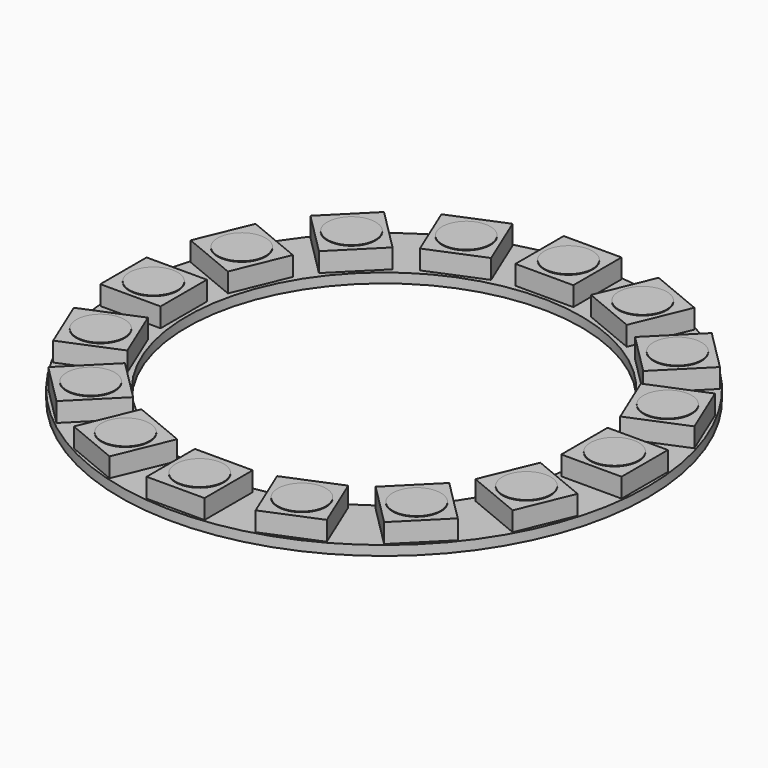
from build123d import *

# Parameters (mm, degrees)
F0_R     = 21.9
F0_R_2   = 16.35
F1_DEPTH = 0.8
F2_R     = 2
F2_W     = 5
F2_H     = 4.8
F2_W_2   = 4.8
F2_H_2   = 5
F3_DEPTH = 1.6
F4_DEPTH = 1.65
F6_DEPTH = 0.1


with BuildPart() as f1:
    # F0 (on Top) → F1 (new body)
    with BuildSketch(Plane.XY):
        Circle(F0_R)
        Circle(F0_R_2, mode=Mode.SUBTRACT)
    extrude(amount=F1_DEPTH)

    # F2 (on face) → F3 (join)
    with BuildSketch(Plane.XY.offset(0.8)):
        with BuildLine():
            Line((2.4, 21.625), (0, 21.625))
            Line((0, 21.625), (0, 21.125))
            ThreePointArc((0, 21.125), (1.4142135624, 20.5392135624), (2, 19.125))
            ThreePointArc((2, 19.125), (1.4142135624, 17.7107864376), (0, 17.125))
            Line((0, 17.125), (0, 16.625))
            Line((0, 16.625), (2.4, 16.625))
            Line((2.4, 16.625), (2.4, 21.625))
        make_face()
        with BuildLine():
            Line((0, 21.125), (0, 21.625))
            Line((0, 21.625), (-2.4, 21.625))
            Line((-2.4, 21.625), (-2.4, 16.625))
            Line((-2.4, 16.625), (0, 16.625))
            Line((0, 16.625), (0, 17.125))
            ThreePointArc((0, 17.125), (-2, 19.125), (0, 21.125))
        make_face()
        Polygon((-10.4928401029, 19.0604546529), (-8.5794229411, 14.4410569903), (-4.144801185, 16.2779374657), (-6.0582183469, 20.8973351282), align=None)
        with Locations((-7.318820644, 17.6691960593)):
            Circle(F2_R, mode=Mode.SUBTRACT)
        Polygon((-16.988240418, 13.5941278683), (-13.4527065121, 10.0585939624), (-10.0585939624, 13.4527065121), (-13.5941278683, 16.988240418), align=None)
        with Locations((-13.5234171902, 13.5234171902)):
            Circle(F2_R, mode=Mode.SUBTRACT)
        Polygon((-20.8973351282, 6.0582183469), (-16.2779374657, 4.144801185), (-14.4410569903, 8.5794229411), (-19.0604546529, 10.4928401029), align=None)
        with Locations((-17.6691960593, 7.318820644)):
            Circle(F2_R, mode=Mode.SUBTRACT)
        with Locations((-19.125, 0)):
            Rectangle(F2_W, F2_H)
        with Locations((-19.125, 0)):
            Circle(F2_R, mode=Mode.SUBTRACT)
        Polygon((-19.0604546529, -10.4928401029), (-14.4410569903, -8.5794229411), (-16.2779374657, -4.144801185), (-20.8973351282, -6.0582183469), align=None)
        with Locations((-17.6691960593, -7.318820644)):
            Circle(F2_R, mode=Mode.SUBTRACT)
        Polygon((-13.5941278683, -16.988240418), (-10.0585939624, -13.4527065121), (-13.4527065121, -10.0585939624), (-16.988240418, -13.5941278683), align=None)
        with Locations((-13.5234171902, -13.5234171902)):
            Circle(F2_R, mode=Mode.SUBTRACT)
        Polygon((-6.0582183469, -20.8973351282), (-4.144801185, -16.2779374657), (-8.5794229411, -14.4410569903), (-10.4928401029, -19.0604546529), align=None)
        with Locations((-7.318820644, -17.6691960593)):
            Circle(F2_R, mode=Mode.SUBTRACT)
        with Locations((0, -19.125)):
            Rectangle(F2_W_2, F2_H_2)
        with Locations((0, -19.125)):
            Circle(F2_R, mode=Mode.SUBTRACT)
        Polygon((10.4928401029, -19.0604546529), (8.5794229411, -14.4410569903), (4.144801185, -16.2779374657), (6.0582183469, -20.8973351282), align=None)
        with Locations((7.318820644, -17.6691960593)):
            Circle(F2_R, mode=Mode.SUBTRACT)
        Polygon((16.988240418, -13.5941278683), (13.4527065121, -10.0585939624), (10.0585939624, -13.4527065121), (13.5941278683, -16.988240418), align=None)
        with Locations((13.5234171902, -13.5234171902)):
            Circle(F2_R, mode=Mode.SUBTRACT)
        Polygon((20.8973351282, -6.0582183469), (16.2779374657, -4.144801185), (14.4410569903, -8.5794229411), (19.0604546529, -10.4928401029), align=None)
        with Locations((17.6691960593, -7.318820644)):
            Circle(F2_R, mode=Mode.SUBTRACT)
        with Locations((19.125, 0)):
            Rectangle(F2_W, F2_H)
        with Locations((19.125, 0)):
            Circle(F2_R, mode=Mode.SUBTRACT)
        Polygon((19.0604546529, 10.4928401029), (14.4410569903, 8.5794229411), (16.2779374657, 4.144801185), (20.8973351282, 6.0582183469), align=None)
        with Locations((17.6691960593, 7.318820644)):
            Circle(F2_R, mode=Mode.SUBTRACT)
        Polygon((13.5941278683, 16.988240418), (10.0585939624, 13.4527065121), (13.4527065121, 10.0585939624), (16.988240418, 13.5941278683), align=None)
        with Locations((13.5234171902, 13.5234171902)):
            Circle(F2_R, mode=Mode.SUBTRACT)
        Polygon((6.0582183469, 20.8973351282), (4.144801185, 16.2779374657), (8.5794229411, 14.4410569903), (10.4928401029, 19.0604546529), align=None)
        with Locations((7.318820644, 17.6691960593)):
            Circle(F2_R, mode=Mode.SUBTRACT)
    extrude(amount=F3_DEPTH)

    # F4 (add): faces of the model
    f4_faces = [f1.faces().sort_by_distance(p)[0] for p in [
        (-17.6691960593, 7.318820644, 0.8),
        (-13.5234171902, 13.5234171902, 0.8),
        (-7.318820644, 17.6691960593, 0.8),
        (0, 19.125, 0.8),
        (7.318820644, 17.6691960593, 0.8),
        (-19.125, 0, 0.8),
        (-17.6691960593, -7.318820644, 0.8),
        (-13.5234171902, -13.5234171902, 0.8),
        (-7.318820644, -17.6691960593, 0.8),
        (0, -19.125, 0.8),
        (7.318820644, -17.6691960593, 0.8),
        (13.5234171902, -13.5234171902, 0.8),
        (17.6691960593, -7.318820644, 0.8),
        (19.125, 0, 0.8),
        (13.5234171902, 13.5234171902, 0.8),
        (17.6691960593, 7.318820644, 0.8),
    ]]
    extrude(f4_faces, amount=F4_DEPTH)

    # F5 (on face) → F6 (join)
    with BuildSketch(Plane(origin=(0, 0, 0), x_dir=(1, 0, 0), z_dir=(0, 0, -1))):
        Polygon((7.557822985, 19.3773058048), (6.4165551654, 19.748126198), (5.4895041823, 16.8949566491), (6.6307720019, 16.5241362559), align=None)
        Polygon((1.9239364053, 20.7098801839), (0.7246674128, 20.75175958), (0.6199689227, 17.7535870989), (1.8192379152, 17.7117077029), align=None)
        Polygon((4.7874710341, 20.240572858), (3.6057017305, 20.4489506712), (3.0847571975, 17.4945274122), (4.2665265011, 17.286149599), align=None)
        Polygon((-0.6199689227, 17.7535870989), (-0.7246674128, 20.75175958), (-1.9239364053, 20.7098801839), (-1.8192379152, 17.7117077029), align=None)
        Polygon((-3.0847571975, 17.4945274122), (-3.6057017305, 20.4489506712), (-4.7874710341, 20.240572858), (-4.2665265011, 17.286149599), align=None)
        Polygon((-5.4895041823, 16.8949566491), (-6.4165551654, 19.748126198), (-7.557822985, 19.3773058048), (-6.6307720019, 16.5241362559), align=None)
    extrude(amount=F6_DEPTH)


solid = f1.part
